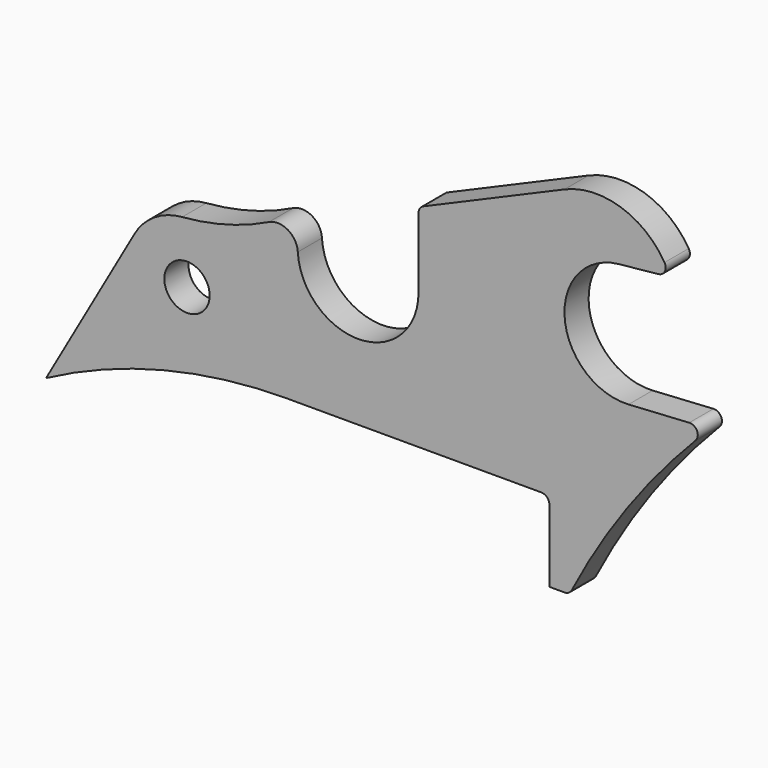
from build123d import *

# Parameters (mm, degrees)
F0_R     = 14.2875
F1_DEPTH = 9.525
F2_R     = 5.08


with BuildPart() as f1:
    # F0 (on Front) → F1 (new body, symmetric)
    with BuildSketch(Plane.XZ):
        with BuildLine():
            ThreePointArc((317.5, 146.05), (280.478203, 107.965259), (241.361025, 143.894458))
            ThreePointArc((241.361025, 143.894458), (235.097549, 154.13599), (223.100917, 154.584212))
            ThreePointArc((223.100917, 154.584212), (196.448532, 144.511932), (168.387104, 139.576686))
            ThreePointArc((168.387104, 139.576686), (150.974575, 133.730468), (138.320821, 120.416681))
            Line((138.320821, 120.416681), (82.55, 22.225))
            ThreePointArc((82.55, 22.225), (156.404838, 50.655649), (234.95, 60.325))
            Line((234.95, 60.325), (400.05, 60.325))
            Line((400.05, 60.325), (400.05, 9.525))
            Line((400.05, 9.525), (412.75, 9.525))
            ThreePointArc((412.75, 9.525), (452.222526, 73.519998), (501.65, 130.18008))
            Line((501.65, 130.18008), (449.9643, 127.06884))
            ThreePointArc((449.9643, 127.06884), (409.702523, 161.985365), (443.736498, 202.995886))
            Line((443.736498, 202.995886), (476.25, 206.375))
            ThreePointArc((476.25, 206.375), (448.550685, 233.798385), (409.575, 233.3625))
            Line((409.575, 233.3625), (317.5, 193.675))
            Line((317.5, 193.675), (317.5, 146.05))
        make_face()
        with Locations((171.45, 101.6)):
            Circle(F0_R, mode=Mode.SUBTRACT)
    extrude(amount=F1_DEPTH, both=True)

    # F2
    f2_edges = [f1.edges().sort_by_distance(p)[0] for p in [
        (317.5, 0, 193.675),
        (476.25, 0, 206.375),
        (501.65, 0, 130.18008),
        (412.75, 0, 9.525),
        (400.05, 0, 60.325),
    ]]
    fillet(f2_edges, radius=F2_R)


solid = f1.part
